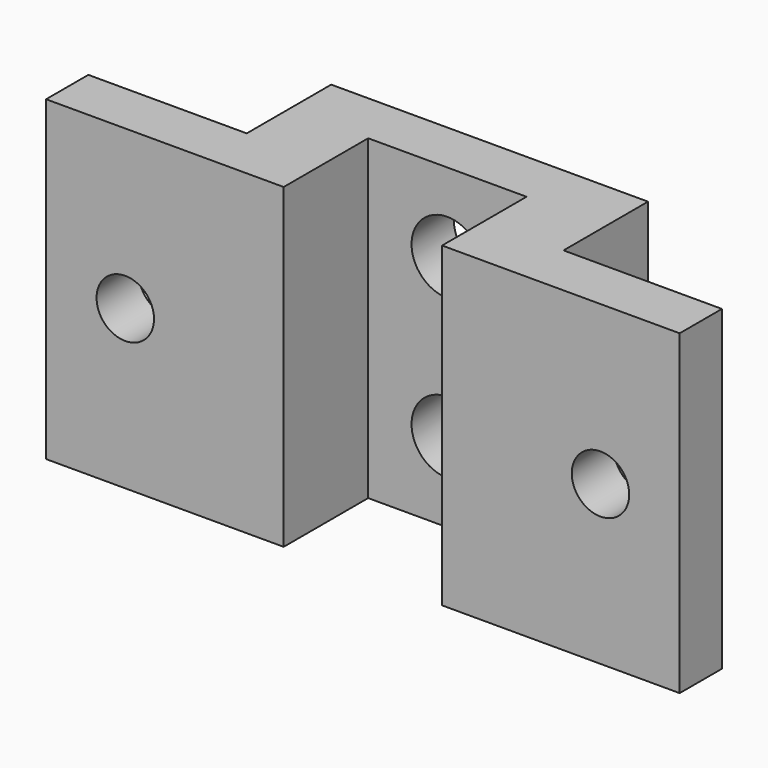
from build123d import *

# Parameters (mm, degrees)
F1_DEPTH = 19.05
F2_R     = 2.15265
F2_R_2   = 1.7272
F3_DEPTH = 9.525


with BuildPart() as f1:
    # F0 (on Top) → F1 (new body)
    with BuildSketch(Plane.XY):
        Polygon((0, 0), (0, 6.35), (9.525, 6.35), (9.525, 0), (23.8125, 0), (23.8125, 3.175), (14.2875, 3.175), (14.2875, 9.525), (-4.7625, 9.525), (-4.7625, 3.175), (-14.2875, 3.175), (-14.2875, 0), align=None)
    extrude(amount=F1_DEPTH)

    # F2 (on face) → F3 (cut, through all)
    with BuildSketch(Plane.XZ):
        with Locations((4.7625, 4.7625)):
            Circle(F2_R)
        with Locations((4.7625, 14.2875)):
            Circle(F2_R)
        with Locations((-9.525, 9.525)):
            Circle(F2_R_2)
        with Locations((19.05, 9.525)):
            Circle(F2_R_2)
    extrude(amount=-F3_DEPTH, mode=Mode.SUBTRACT)


solid = f1.part
